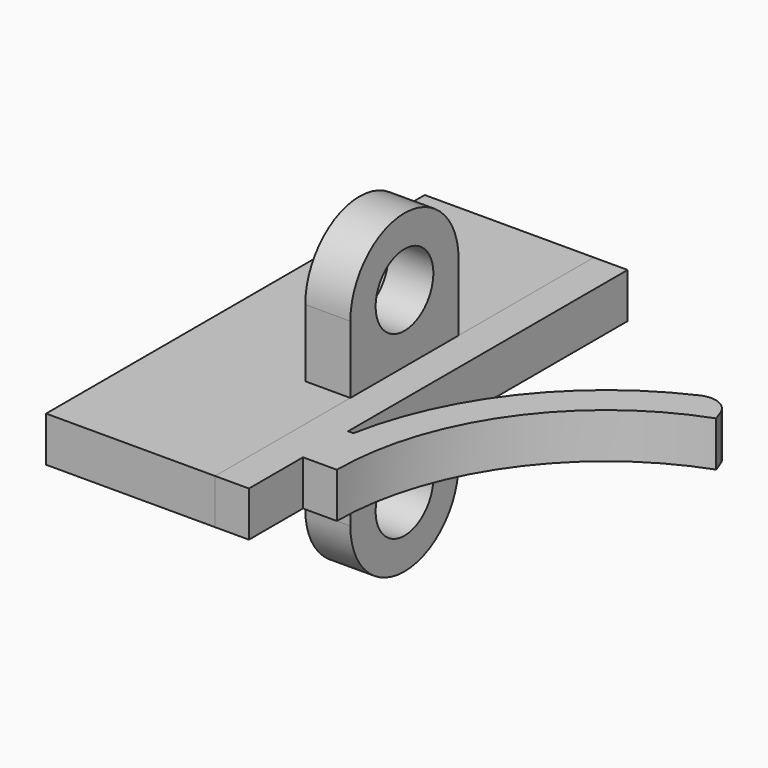
from build123d import *

# Parameters (mm, degrees)
F1_DEPTH = 1
F2_R     = 1.6
F3_DEPTH = 2
F5_DEPTH = 5.5


with BuildPart() as f1:
    # F0 (on Top) → F1 (new body, symmetric)
    with BuildSketch(Plane.XY):
        with BuildLine():
            Line((-13.438, 0), (-11.938, 0))
            ThreePointArc((-11.938, 0), (-9.779037, 6.847355), (-4.083036, 11.218051))
            Line((-4.083036, 11.218051), (-4.240275, 11.650061))
            ThreePointArc((-4.240275, 11.650061), (-4.794154, 12.230617), (-5.596431, 12.217193))
            ThreePointArc((-5.596431, 12.217193), (-10.581323, 8.283444), (-13.203403, 2.5))
            ThreePointArc((-13.203403, 2.5), (-13.379222, 1.255492), (-13.438, 0))
        make_face()
        Polygon((-13.438, -3), (-13.438, 0), (-13.438, 2.5), (-13.438, 18), (-14.938, 18), (-14.938, -3), align=None)
        with BuildLine():
            Line((-13.438, 2.5), (-13.438, 0))
            ThreePointArc((-13.438, 0), (-13.379222, 1.255492), (-13.203403, 2.5))
            Line((-13.203403, 2.5), (-13.438, 2.5))
        make_face()
    extrude(amount=F1_DEPTH, both=True)


with BuildPart() as f3:
    # F2 (on face) → F3 (new body)
    with BuildSketch(Plane(origin=(-14.938, 0, 0), x_dir=(0, -1, 0), z_dir=(-1, 0, 0))):
        Polygon((-18, 1), (-18, -1), (-10.5, -1), (-4.5, -1), (3, -1), (3, 1), (-4.5, 1), (-10.5, 1), align=None)
        with BuildLine():
            Line((-4.5, -1), (-10.5, -1))
            Line((-10.5, -1), (-10.5, -4))
            ThreePointArc((-10.5, -4), (-7.5, -7), (-4.5, -4))
            Line((-4.5, -4), (-4.5, -1))
        make_face()
        with Locations((-7.5, -4)):
            Circle(F2_R, mode=Mode.SUBTRACT)
        with BuildLine():
            Line((-10.5, 4), (-10.5, 1))
            Line((-10.5, 1), (-4.5, 1))
            Line((-4.5, 1), (-4.5, 4))
            ThreePointArc((-4.5, 4), (-7.5, 7), (-10.5, 4))
        make_face()
        with Locations((-7.5, 4)):
            Circle(F2_R, mode=Mode.SUBTRACT)
    extrude(amount=F3_DEPTH)

    # F4 (on face) → F5 (join)
    with BuildSketch(Plane(origin=(-16.938, 0, 0), x_dir=(0, -1, 0), z_dir=(-1, 0, 0))):
        Polygon((-18, 1), (-18, -1), (-10.5, -1), (-4.5, -1), (3, -1), (3, 1), (-4.5, 1), (-10.5, 1), align=None)
    extrude(amount=F5_DEPTH)


solid = Compound([f1.part, f3.part])
